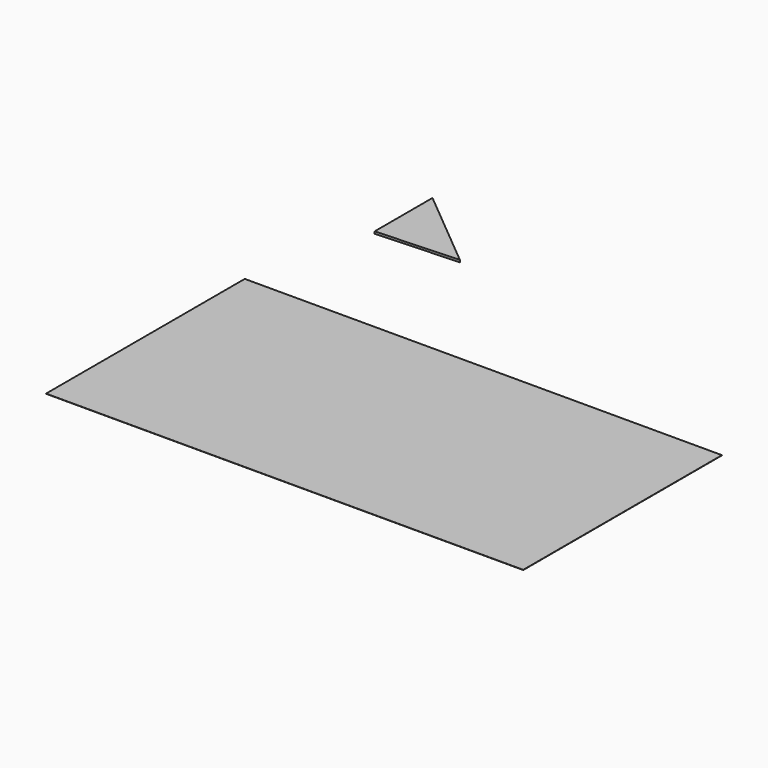
from build123d import *

# Parameters (mm, degrees)
F0_W     = 56.01848
F0_H     = 29.157158
F1_DEPTH = 0.0254
F3_DEPTH = 0.254


with BuildPart() as f1:
    # F0 (on Top) → F1 (new body)
    with BuildSketch(Plane.XY):
        Rectangle(F0_W, F0_H)
    extrude(amount=F1_DEPTH)


with BuildPart() as f3:
    # F2 (on Top) → F3 (new body)
    with BuildSketch(Plane.XY):
        Polygon((-24.335897, 37.536975), (-24.335897, 29.042367), (-14.693372, 29.501535), align=None)
    extrude(amount=F3_DEPTH)


solid = Compound([f1.part, f3.part])
